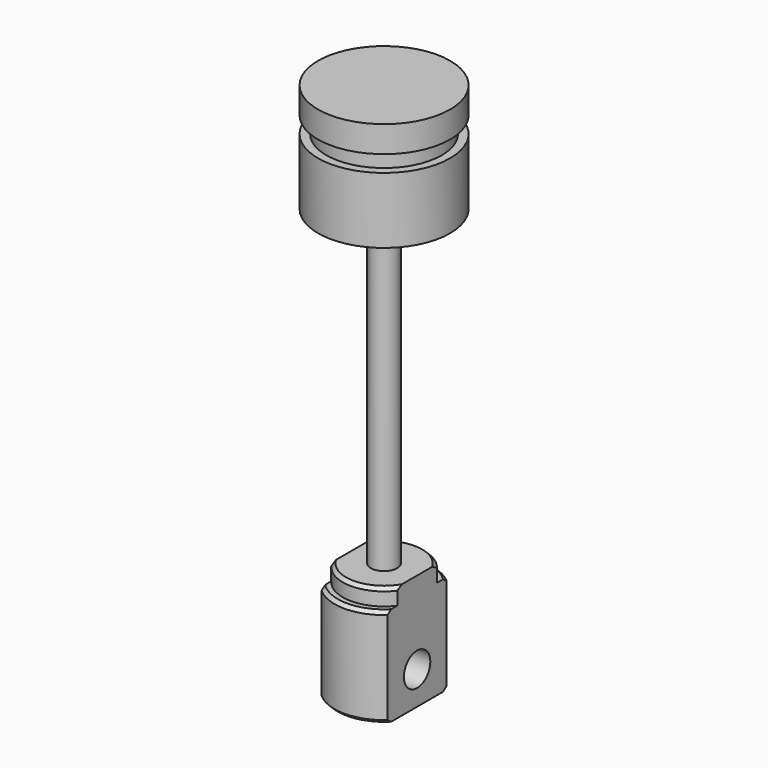
from build123d import *

# Parameters (mm, degrees)
F2_R          = 0.8
F3_DEPTH      = 22
F3_DEPTH_BACK = 4
F5_DEPTH      = 6
F6_R          = 0.8
F7_DEPTH      = 4
F8_DEPTH      = 1
F9_SIZE       = 0.2
F10_R         = 1
F11_DEPTH     = 6.001


with BuildPart() as f1:
    # F0 (on Front) → F1 (revolve)
    with BuildSketch(Plane.XZ):
        Polygon((4, 32.5), (0, 32.5), (0, 30.4), (0.8, 30.4), (0.8, 25.9), (4, 25.9), (4, 29.9), (3.5, 29.9), (3.5, 30.9), (4, 30.9), align=None)
    revolve(axis=Axis((0, 0, 1.0303046881), (0, 0, -1)))


with BuildPart() as f3:
    # F2 (on face) → F3 (new body, two sides)
    with BuildSketch(Plane(origin=(0, 0, 25.9), x_dir=(1, 0, 0), z_dir=(0, 0, -1))) as f3_sk:
        Circle(F2_R)
    extrude(amount=F3_DEPTH)
    extrude(f3_sk.sketch, amount=-F3_DEPTH_BACK)


with BuildPart() as f5:
    # F4 (on Top) → F5 (new body)
    with BuildSketch(Plane.XY):
        with BuildLine():
            Line((2, -2.2360679775), (2, 2.2360679775))
            ThreePointArc((2, 2.2360679775), (0, 3), (-2, 2.2360679775))
            Line((-2, 2.2360679775), (-2, -2.2360679775))
            ThreePointArc((-2, -2.2360679775), (0, -3), (2, -2.2360679775))
        make_face()
    extrude(amount=F5_DEPTH)

    # F6 (on face) → F7 (cut)
    with BuildSketch(Plane.XY.offset(6)):
        Circle(F6_R)
    extrude(amount=-F7_DEPTH, mode=Mode.SUBTRACT)

    # F6 (on face) → F8 (join)
    with BuildSketch(Plane.XY.offset(6)):
        with BuildLine():
            ThreePointArc((2, 1.5), (0, 2.5), (-2, 1.5))
            Line((-2, 1.5), (-2, -1.5))
            ThreePointArc((-2, -1.5), (0, -2.5), (2, -1.5))
            Line((2, -1.5), (2, 1.5))
        make_face()
        Circle(F6_R, mode=Mode.SUBTRACT)
    extrude(amount=F8_DEPTH)

    # F9
    f9_edges = [f5.edges().sort_by_distance(p)[0] for p in [
        (0, -3, 6),
        (0, -2.5, 7),
        (0, 3, 6),
        (0, 2.5, 7),
        (0, -3, 0),
        (0, 3, 0),
    ]]
    chamfer(f9_edges, length=F9_SIZE)

    # F10 (on face) → F11 (cut, through all)
    with BuildSketch(Plane.YZ.offset(2)):
        with Locations((0, 2)):
            Circle(F10_R)
    extrude(amount=-F11_DEPTH, mode=Mode.SUBTRACT)


solid = Compound([f1.part, f3.part, f5.part])
